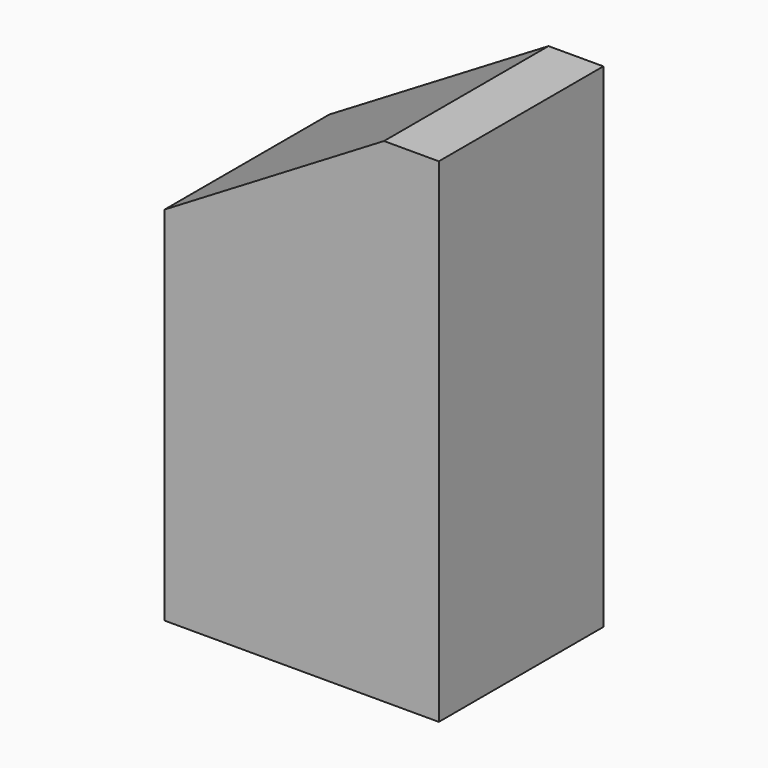
from build123d import *

# Parameters (mm, degrees)
SKETCH023_W     = 16
SKETCH023_H     = 16
PAD013_DEPTH    = 28.8
POCKET010_DEPTH = 16
POCKET047_DEPTH = 16
PAD140_DEPTH    = 16
SKETCH193_W     = 16
SKETCH193_H     = 2
POCKET075_DEPTH = 30


with BuildPart() as part:
    # Sketch023 (on Face56 of Binder009) → Pad013 (new body)
    with BuildSketch(Plane.XY.offset(-28.8)):
        with Locations((-8, 32)):
            Rectangle(SKETCH023_W, SKETCH023_H)
    extrude(amount=PAD013_DEPTH)

    # Sketch024 (on Face3 of Pad013) → Pocket010 (cut)
    with BuildSketch(Plane.XZ.offset(-24)):
        Polygon((-16, -9.6), (0, 0), (-16, 0), align=None)
    extrude(amount=-POCKET010_DEPTH, mode=Mode.SUBTRACT)

    # Sketch138 (on Face6 of Pocket010) → Pocket047 (cut)
    with BuildSketch(Plane.XZ.offset(-24)):
        Polygon((0, 0), (-3.2, 0), (-16, -7.68), (-16, -10.88), (-3.2, -3.2), (0, -3.2), align=None)
    extrude(amount=-POCKET047_DEPTH, mode=Mode.SUBTRACT)

    # Sketch138 (on Face6 of Pocket010) → Pad140 (join)
    with BuildSketch(Plane.XZ.offset(-24)):
        Polygon((0, 0), (-3.2, 0), (-16, -7.68), (-16, -10.88), (-3.2, -3.2), (0, -3.2), align=None)
    extrude(amount=-PAD140_DEPTH)

    # Sketch193 (on Face1 of Pad140) → Pocket075 (cut)
    with BuildSketch(Plane(origin=(0, 0, -28.8), x_dir=(1, 0, 0), z_dir=(0, 0, -1))):
        with Locations((-8, -25)):
            Rectangle(SKETCH193_W, SKETCH193_H)
        with Locations((-8, -39)):
            Rectangle(SKETCH193_W, SKETCH193_H)
    extrude(amount=-POCKET075_DEPTH, mode=Mode.SUBTRACT)


solid = part.part
